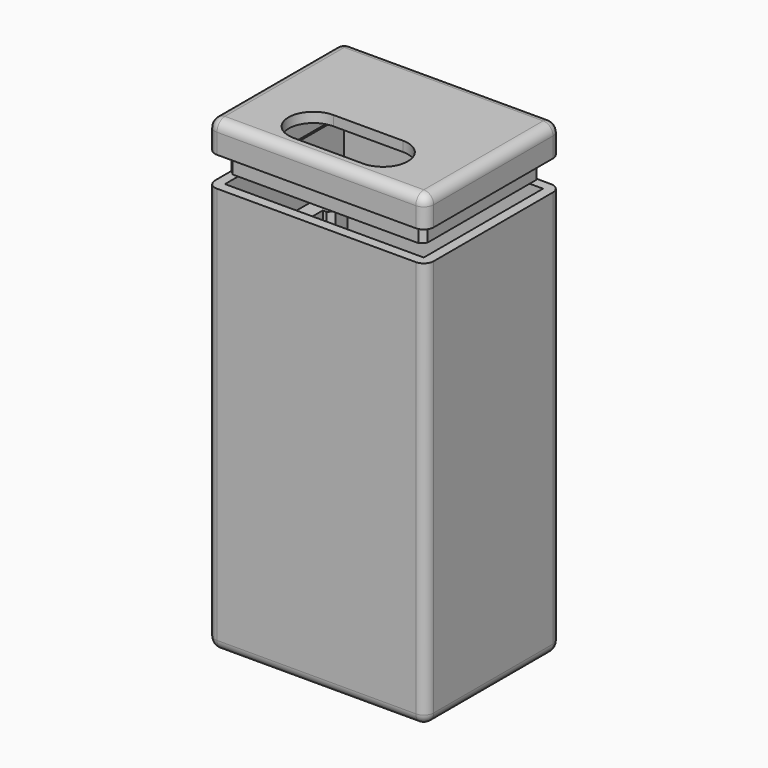
from build123d import *

# Parameters (mm, degrees)
SKETCH_W        = 20
SKETCH_H        = 15
PAD_DEPTH       = 40
THICKNESS_T     = 1
SKETCH001_W     = 2.5
SKETCH001_H     = 2
PAD001_DEPTH    = 34
SKETCH002_W     = 2.5
SKETCH002_H     = 2
PAD002_DEPTH    = 34
SKETCH003_W     = 1.5
SKETCH003_H     = 2
PAD003_DEPTH    = 34
CHAMFER_SIZE    = 0.5
CHAMFER001_SIZE = 0.5
SKETCH008_W     = 1.6
SKETCH008_H     = 1.8
PAD006_DEPTH    = 34
SKETCH009_W     = 0.7
SKETCH009_H     = 1.8
PAD007_DEPTH    = 34
SKETCH004_W     = 20
SKETCH004_H     = 15
PAD004_DEPTH    = 2
THICKNESS001_T  = 1
SKETCH005_W     = 20
SKETCH005_H     = 15
SKETCH005_W_2   = 18
SKETCH005_H_2   = 13
PAD005_DEPTH    = 4
SKETCH006_W     = 20
SKETCH006_H     = 15
SKETCH006_W_2   = 19.7
SKETCH006_H_2   = 14.7
POCKET_DEPTH    = 2
CHAMFER002_SIZE = 0.5
POCKET001_DEPTH = 5


with BuildPart() as corps:
    # Sketch → Pad (new body)
    with BuildSketch(Plane.XY):
        Rectangle(SKETCH_W, SKETCH_H)
    extrude(amount=PAD_DEPTH)

    # Thickness
    thickness_openings = [corps.faces().sort_by_distance(p)[0] for p in [
        (0, 0, 40),
    ]]
    offset(amount=THICKNESS_T, openings=thickness_openings)

    # Sketch001 (on Face5 of Thickness) → Pad001 (join)
    with BuildSketch(Plane.XY):
        with Locations((-8.75, 0)):
            Rectangle(SKETCH001_W, SKETCH001_H)
        with Locations((8.75, 0)):
            Rectangle(SKETCH001_W, SKETCH001_H)
    extrude(amount=PAD001_DEPTH)

    # Sketch002 (on Face4 of Pad001) → Pad002 (join)
    with BuildSketch(Plane.XY):
        with Locations((-8.75, 3.8)):
            Rectangle(SKETCH002_W, SKETCH002_H)
        with Locations((8.75, 3.8)):
            Rectangle(SKETCH002_W, SKETCH002_H)
    extrude(amount=PAD002_DEPTH)

    # Sketch003 (on Face4 of Pad002) → Pad003 (join)
    with BuildSketch(Plane.XY):
        with Locations((9.25, -3.8)):
            Rectangle(SKETCH003_W, SKETCH003_H)
        with Locations((-9.25, -3.8)):
            Rectangle(SKETCH003_W, SKETCH003_H)
    extrude(amount=PAD003_DEPTH)

    # Chamfer
    chamfer_edges = [corps.edges().sort_by_distance(p)[0] for p in [
        (-7.5, 2.8, 17),
        (7.5, 2.8, 17),
        (7.5, 1, 17),
        (-7.5, 1, 17),
    ]]
    chamfer(chamfer_edges, length=CHAMFER_SIZE)

    # Chamfer001
    chamfer001_edges = [corps.edges().sort_by_distance(p)[0] for p in [
        (-7.5, -1, 17),
        (7.5, -1, 17),
    ]]
    chamfer(chamfer001_edges, length=CHAMFER001_SIZE)

    # Sketch008 (on Face1 of Chamfer001) → Pad006 (join)
    with BuildSketch(Plane.XY):
        with Locations((9.2, 1.9)):
            Rectangle(SKETCH008_W, SKETCH008_H)
        with Locations((-9.2, 1.9)):
            Rectangle(SKETCH008_W, SKETCH008_H)
    extrude(amount=PAD006_DEPTH)

    # Sketch009 (on Face1 of Pad006) → Pad007 (join)
    with BuildSketch(Plane.XY):
        with Locations((9.65, -1.9)):
            Rectangle(SKETCH009_W, SKETCH009_H)
        with Locations((-9.65, -1.9)):
            Rectangle(SKETCH009_W, SKETCH009_H)
    extrude(amount=PAD007_DEPTH)


with BuildPart() as couvercle:
    # Sketch004 → Pad004 (new body)
    with BuildSketch(Plane.XY):
        Rectangle(SKETCH004_W, SKETCH004_H)
    extrude(amount=PAD004_DEPTH)

    # Thickness001
    thickness001_openings = [couvercle.faces().sort_by_distance(p)[0] for p in [
        (0, 0, 0),
    ]]
    offset(amount=THICKNESS001_T, openings=thickness001_openings)

    # Sketch005 (on Face5 of Thickness001) → Pad005 (join)
    with BuildSketch(Plane(origin=(0, 0, 2), x_dir=(1, 0, 0), z_dir=(0, 0, -1))):
        Rectangle(SKETCH005_W, SKETCH005_H)
        Rectangle(SKETCH005_W_2, SKETCH005_H_2, mode=Mode.SUBTRACT)
    extrude(amount=PAD005_DEPTH)

    # Sketch006 (on Face6 of Pad005) → Pocket (cut)
    with BuildSketch(Plane(origin=(0, 0, -2), x_dir=(1, 0, 0), z_dir=(0, 0, -1))):
        Rectangle(SKETCH006_W, SKETCH006_H)
        Rectangle(SKETCH006_W_2, SKETCH006_H_2, mode=Mode.SUBTRACT)
    extrude(amount=-POCKET_DEPTH, mode=Mode.SUBTRACT)

    # Chamfer002
    chamfer002_edges = [couvercle.edges().sort_by_distance(p)[0] for p in [
        (-9.85, -7.35, -1),
        (9.85, -7.35, -1),
        (9.85, 7.35, -1),
        (-9.85, 7.35, -1),
    ]]
    chamfer(chamfer002_edges, length=CHAMFER002_SIZE)

    # Sketch007 (on Face15 of Chamfer002) → Pocket001 (cut)
    with BuildSketch(Plane(origin=(0, 0, 2), x_dir=(1, 0, 0), z_dir=(0, 0, -1))):
        with BuildLine():
            ThreePointArc((-3.5, 7), (-6, 4.5), (-3.5, 2))
            Line((-3.5, 2), (3.5, 2))
            ThreePointArc((3.5, 2), (6, 4.5), (3.5, 7))
            Line((-3.5, 7), (3.5, 7))
        make_face()
    extrude(amount=-POCKET001_DEPTH, mode=Mode.SUBTRACT)


with BuildPart() as couvercle_1:
    # Body001 placement: moved
    add(couvercle.part.moved(Location((0, 0, 43))))


solid = Compound([corps.part, couvercle_1.part])
